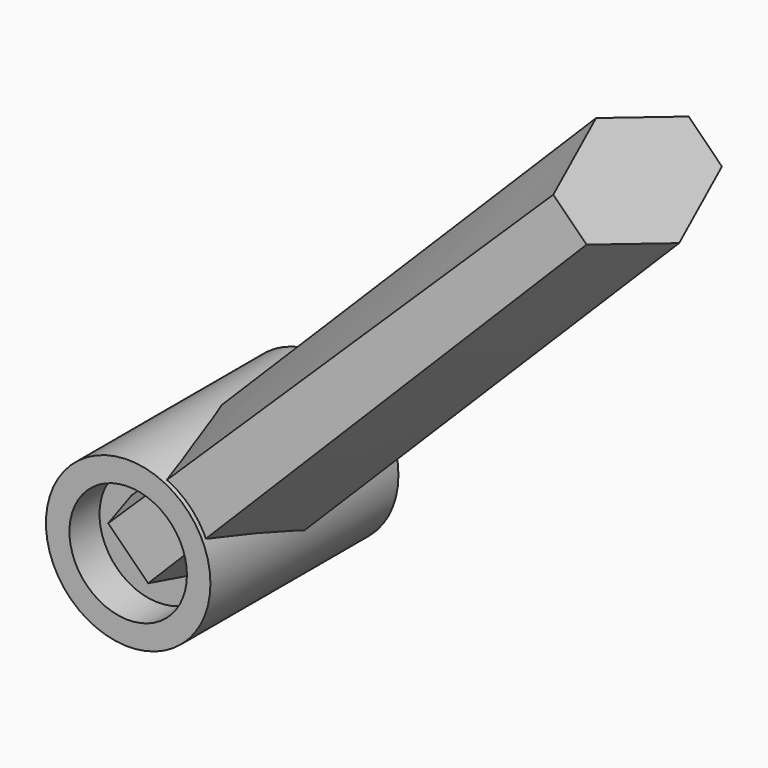
from build123d import *

# Parameters (mm, degrees)
F1_R     = 17.5
F1_R_2   = 5
F2_DEPTH = 25
F3_R     = 12.5
F4_DEPTH = 8


with BuildPart() as f2:
    # F1 (on Front) → F2 (new body)
    with BuildSketch(Plane.XZ):
        Circle(F1_R)
        Circle(F1_R_2, mode=Mode.SUBTRACT)
    extrude(amount=F2_DEPTH)

    # F3 (on face) → F4 (cut)
    with BuildSketch(Plane.XZ.offset(25)):
        Circle(F3_R)
    extrude(amount=-F4_DEPTH, mode=Mode.SUBTRACT)

    # F5: F2 across plane


with BuildPart() as f2_1:
    add(f2.part)
    add(f2.part.mirror(Plane.XZ))


with BuildPart() as f10:
    # F7 (on face) → F10 section 0
    with BuildSketch(Plane(origin=(88.388348, 0, 88.388348), x_dir=(0, 1, 0), z_dir=(0.707107, 0, 0.707107))):
        Polygon((18, 5), (0, 12.5), (-18, 5), (-18, -5), (0, -12.5), (18, -5), align=None)
    # F9 (on face) → F10 section 1
    with BuildSketch(Plane(origin=(0, 0, 0), x_dir=(0, 1, 0), z_dir=(0.707107, 0, 0.707107))):
        Polygon((0, 12.5), (-25, 6), (-25, -6), (0, -12.5), (25, -6), (25, 6), align=None)
    loft()


solid = Compound([f2_1.part, f10.part])
